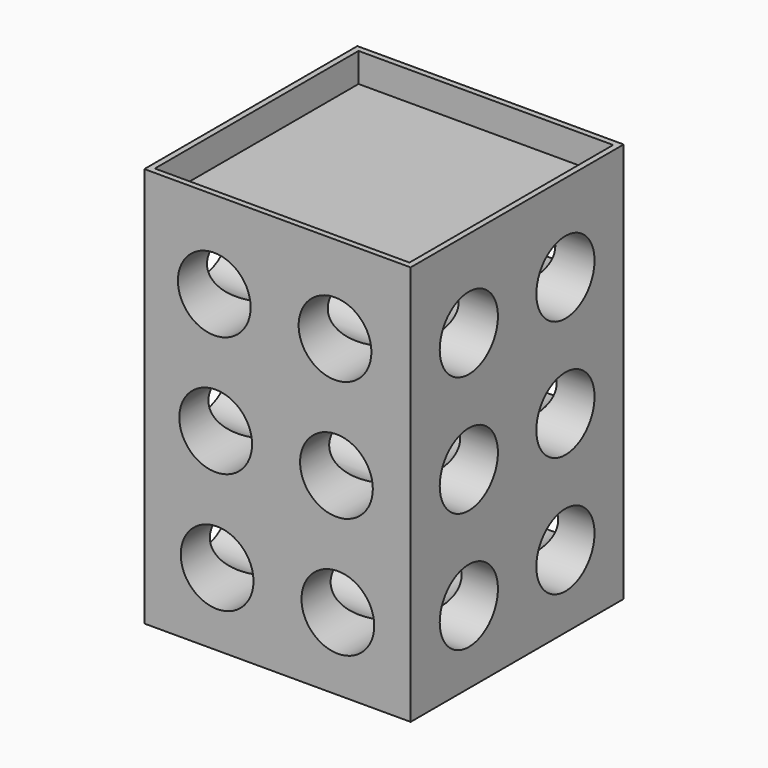
from build123d import *

# Parameters (mm, degrees)
F0_W     = 36.6
F0_H     = 36.6
F1_DEPTH = 55
F2_W     = 35
F2_H     = 35
F3_DEPTH = 4
F4_R     = 5
F5_DEPTH = 70
F6_R     = 5
F7_DEPTH = 50


with BuildPart() as f1:
    # F0 (on Top) → F1 (new body)
    with BuildSketch(Plane.XY):
        with Locations((18.3, 18.3)):
            Rectangle(F0_W, F0_H)
    extrude(amount=F1_DEPTH)

    # F2 (on face) → F3 (cut)
    with BuildSketch(Plane.XY.offset(55)):
        with Locations((18.3, 18.3)):
            Rectangle(F2_W, F2_H)
    extrude(amount=-F3_DEPTH, mode=Mode.SUBTRACT)

    # F4 (on face) → F5 (cut)
    with BuildSketch(Plane.XZ):
        with Locations((10, 10)):
            Circle(F4_R)
        with Locations((26.6, 10)):
            Circle(F4_R)
        with Locations((9.804362, 26.49884)):
            Circle(F4_R)
        with Locations((26.404362, 26.49884)):
            Circle(F4_R)
        with Locations((9.608723, 42.99768)):
            Circle(F4_R)
        with Locations((26.208723, 42.99768)):
            Circle(F4_R)
    extrude(amount=-F5_DEPTH, mode=Mode.SUBTRACT)

    # F6 (on face) → F7 (cut)
    with BuildSketch(Plane(origin=(0, 0, 0), x_dir=(0, -1, 0), z_dir=(-1, 0, 0))):
        with Locations((-26.6, 10)):
            Circle(F6_R)
        with Locations((-10, 10)):
            Circle(F6_R)
        with Locations((-10, 26.5)):
            Circle(F6_R)
        with Locations((-26.6, 26.5)):
            Circle(F6_R)
        with Locations((-10, 43)):
            Circle(F6_R)
        with Locations((-26.6, 43)):
            Circle(F6_R)
    extrude(amount=-F7_DEPTH, mode=Mode.SUBTRACT)


solid = f1.part
